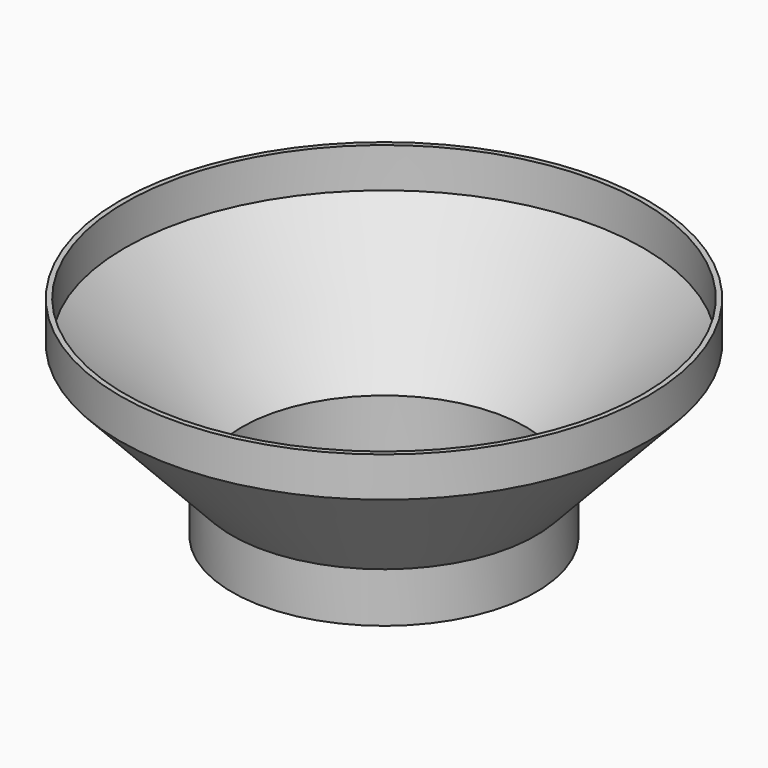
from build123d import *

# Parameters (mm, degrees)
F1_DEPTH = 5
F3_R     = 26.5
F3_R_2   = 26
F6_DEPTH = 4


with BuildPart() as f1:
    # F0 (on Top) → F1 (new body)
    with BuildSketch(Plane.XY):
        with BuildLine():
            ThreePointArc((-14.25, 0), (0, 14.25), (14.25, 0))
            Line((14.25, 0), (15.25, 0))
            ThreePointArc((15.25, 0), (0, 15.25), (-15.25, 0))
            Line((-15.25, 0), (-14.25, 0))
        make_face()
        with BuildLine():
            Line((15.25, 0), (14.25, 0))
            ThreePointArc((14.25, 0), (0, -14.25), (-14.25, 0))
            Line((-14.25, 0), (-15.25, 0))
            ThreePointArc((-15.25, 0), (0, -15.25), (15.25, 0))
        make_face()
    extrude(amount=F1_DEPTH)

    # F4 (on Front) → F5 (revolve)
    with BuildSketch(Plane.XZ):
        Polygon((-26.5, 17), (-15.25, 5), (-14.25, 5), (-26, 17), align=None)
    revolve(axis=Axis((0, 0, 35.630243), (0, 0, 1)))

    # F3 (on offset) → F6 (join)
    with BuildSketch(Plane.XY.offset(17)):
        Circle(F3_R)
        Circle(F3_R_2, mode=Mode.SUBTRACT)
    extrude(amount=F6_DEPTH)


solid = f1.part
